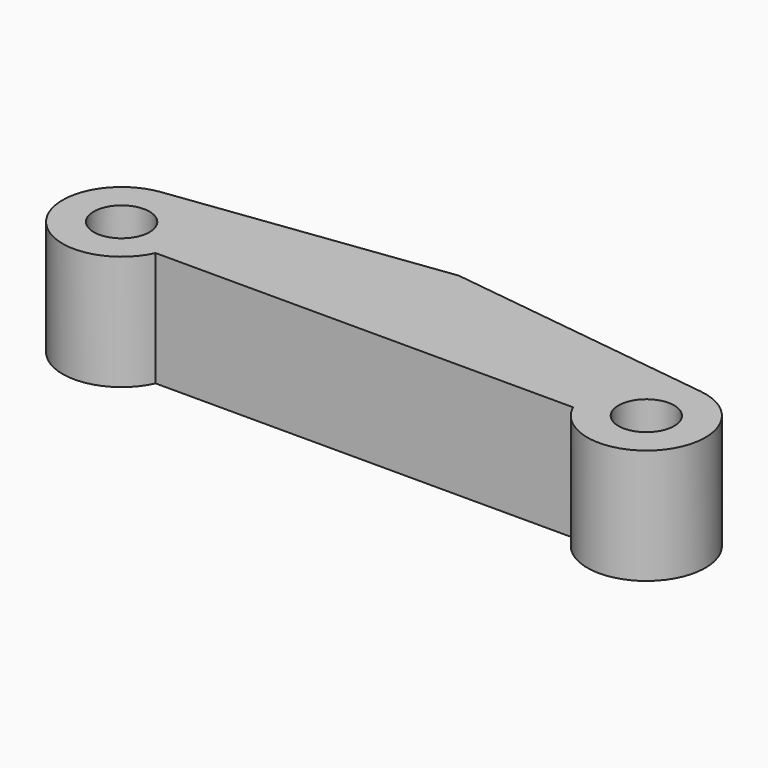
from build123d import *

# Parameters (mm, degrees)
F0_R     = 0.85
F1_DEPTH = 3.5


with BuildPart() as f1:
    # F0 (on Top) → F1 (new body)
    with BuildSketch(Plane.XY):
        with BuildLine():
            Line((-6.363693, -0.75), (6.363693, -0.75))
            ThreePointArc((6.363693, -0.75), (9.449299, -1.067488), (8.23095, 1.785122))
            Line((8.23095, 1.785122), (0, 2.85))
            Line((0, 2.85), (-8.23095, 1.785122))
            ThreePointArc((-8.23095, 1.785122), (-9.449299, -1.067488), (-6.363693, -0.75))
        make_face()
        with Locations((-8, 0)):
            Circle(F0_R, mode=Mode.SUBTRACT)
        with Locations((8, 0)):
            Circle(F0_R, mode=Mode.SUBTRACT)
    extrude(amount=F1_DEPTH)


solid = f1.part
